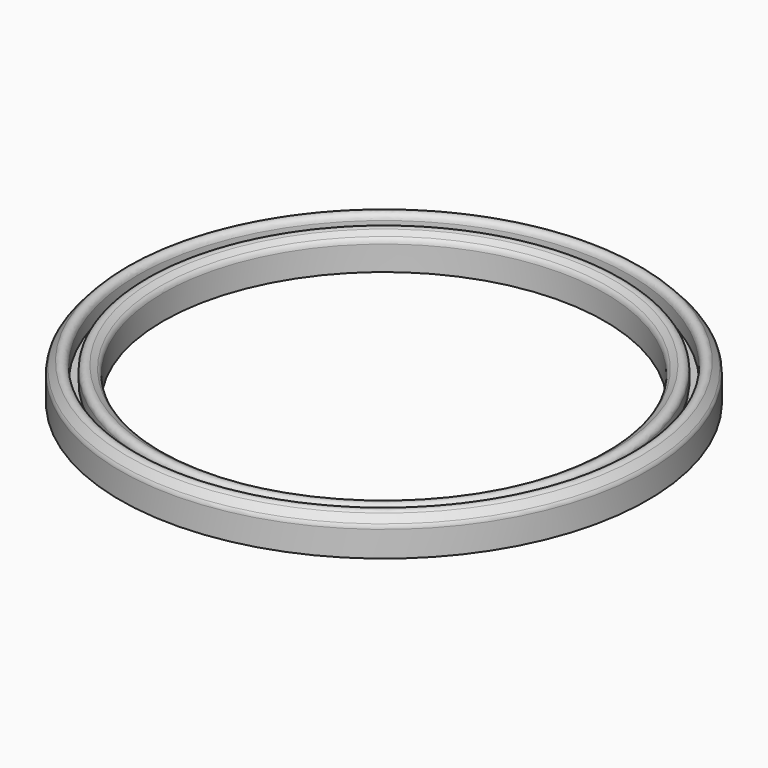
from build123d import *

# Parameters (mm, degrees)
FILLET_R = 1


with BuildPart() as part:
    # Sketch → Revolve (revolve)
    with BuildSketch(Plane.XZ):
        Polygon((-3.65, -4.75), (3.65, -4.75), (3.65, 0), (0.65, 1.75), (0.65, -1.75), (-0.65, -1.75), (-0.65, 3.25), (-3.65, 0), align=None)
    revolve(axis=Axis((41, 0, 0), (0, 0, 1)))

    # Fillet
    fillet_edges = [part.edges().sort_by_distance(p)[0] for p in [
        (78.35, 0, 0),
        (81.35, 0, 1.75),
        (82.65, 0, 3.25),
        (85.65, 0, 0),
    ]]
    fillet(fillet_edges, radius=FILLET_R)


solid = part.part
